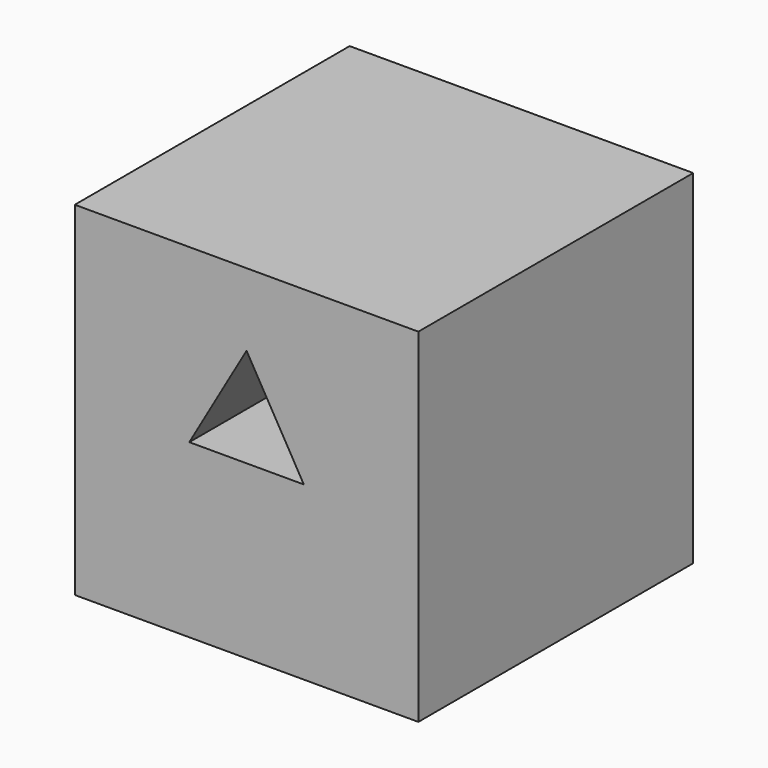
from build123d import *

# Parameters (mm, degrees)
F0_W     = 76.2
F0_H     = 76.2
F1_DEPTH = 38.1
F3_DEPTH = 38.101


with BuildPart() as f1:
    # F0 (on Front) → F1 (new body, symmetric)
    with BuildSketch(Plane.XZ):
        Rectangle(F0_W, F0_H)
    extrude(amount=F1_DEPTH, both=True)

    # F2 (on Front) → F3 (cut, through all)
    with BuildSketch(Plane.XZ):
        Polygon((0, 21.997045), (-12.7, 0), (12.7, 0), align=None)
    extrude(amount=F3_DEPTH, mode=Mode.SUBTRACT)


solid = f1.part
